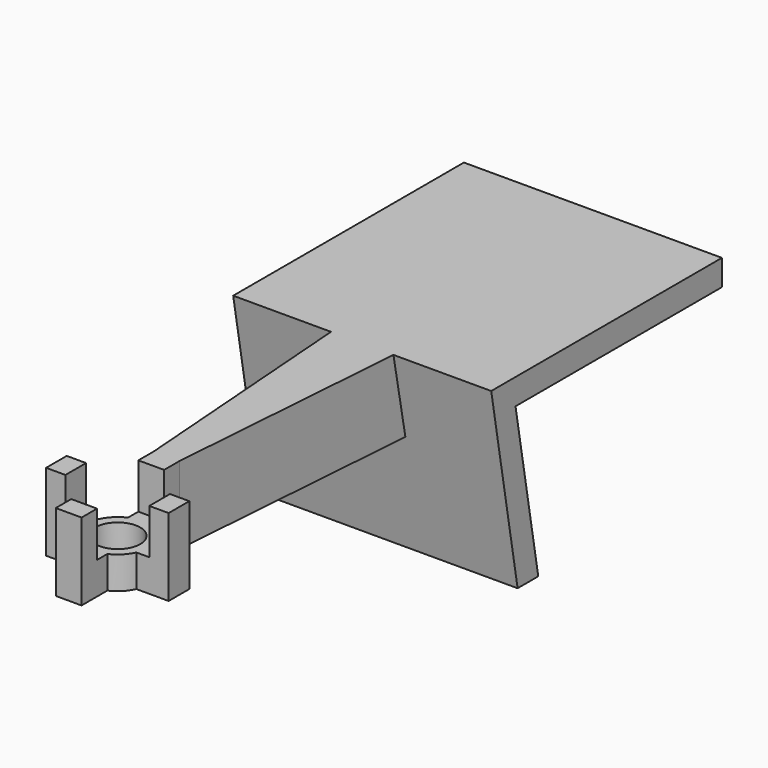
from build123d import *

# Parameters (mm, degrees)
SKETCH_R           = 3.5
PAD_DEPTH          = 5
SKETCH001_W        = 4
SKETCH001_H        = 3
PAD001_DEPTH       = 7
POLARPATTERN_COUNT = 4
PAD002_DEPTH       = 7
PAD004_DEPTH       = 5
PAD005_DEPTH       = 20


with BuildPart() as part:
    # Sketch → Pad (new body)
    with BuildSketch(Plane.XY):
        with BuildLine():
            Line((-9.5, 2), (-9.5, -2))
            Line((-9.5, -2), (-4.5, -2))
            ThreePointArc((-4.5, -2), (-3.482097, -3.482097), (-2, -4.5))
            Line((-2, -9.5), (-2, -4.5))
            Line((-2, -9.5), (2, -9.5))
            Line((2, -9.5), (2, -4.5))
            ThreePointArc((2, -4.5), (3.482097, -3.482097), (4.5, -2))
            Line((9.5, -2), (4.5, -2))
            Line((9.5, -2), (9.5, 2))
            Line((9.5, 2), (4.5, 2))
            ThreePointArc((4.5, 2), (3.482097, 3.482097), (2, 4.5))
            Line((2, 9.5), (2, 4.5))
            Line((2, 9.5), (-2, 9.5))
            Line((-2, 9.5), (-2, 4.5))
            ThreePointArc((-2, 4.5), (-3.482097, 3.482097), (-4.5, 2))
            Line((-9.5, 2), (-4.5, 2))
        make_face()
        Circle(SKETCH_R, mode=Mode.SUBTRACT)
    extrude(amount=-PAD_DEPTH)

    # Sketch001 → Pad001 (join)
    with BuildSketch(Plane.XY):
        with Locations((0, 8)):
            Rectangle(SKETCH001_W, SKETCH001_H)
    pad001 = extrude(amount=PAD001_DEPTH)

    # PolarPattern: Pad001 ×4 about axis
    polarpattern_axis = Axis((0, 0, 0), (0, 0, 1))
    for i in range(1, POLARPATTERN_COUNT):
        add(pad001.rotate(polarpattern_axis, i * 360 / POLARPATTERN_COUNT))

    # Sketch002 → Pad002 (join)
    with BuildSketch(Plane.XY):
        Polygon((-2, 9.5), (-5, 49.5), (5, 49.5), (2, 9.5), align=None)
    extrude(amount=PAD002_DEPTH)

    # Sketch002 → Pad004 (join)
    with BuildSketch(Plane.XY):
        Polygon((-2, 9.5), (-5, 49.5), (5, 49.5), (2, 9.5), align=None)
    extrude(amount=-PAD004_DEPTH)

    # Sketch003 → Pad005 (join, symmetric)
    with BuildSketch(Plane.YZ):
        Polygon((47.384076, 7), (92.089384, 7), (92.089384, 3), (52.089384, 3), (56.497559, -22), (52.497559, -22), align=None)
    extrude(amount=PAD005_DEPTH, both=True)


solid = part.part
